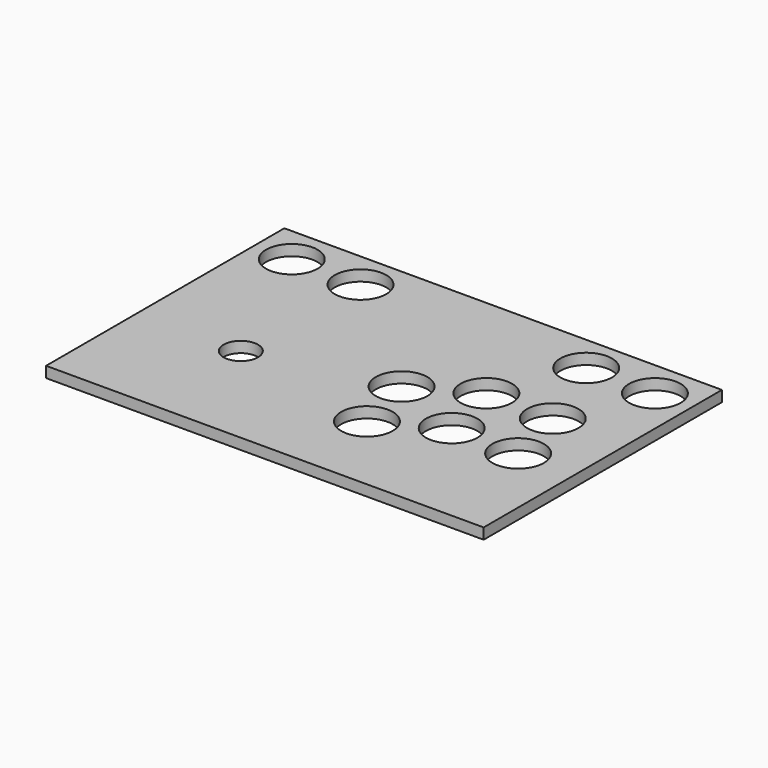
from build123d import *

# Parameters (mm, degrees)
F0_W     = 242.57
F0_H     = 165.1
F0_R     = 9.525
F0_R_2   = 14.2875
F1_DEPTH = 6.0198


with BuildPart() as f1:
    # F0 (on Top) → F1 (new body)
    with BuildSketch(Plane.XY):
        with Locations((121.285, 82.55)):
            Rectangle(F0_W, F0_H)
        with Locations((57.15, 63.5)):
            Circle(F0_R, mode=Mode.SUBTRACT)
        with Locations((141.035022, 46.037435)):
            Circle(F0_R_2, mode=Mode.SUBTRACT)
        with Locations((132.303739, 80.962565)):
            Circle(F0_R_2, mode=Mode.SUBTRACT)
        with Locations((173.65, 64.009325)):
            Circle(F0_R_2, mode=Mode.SUBTRACT)
        with Locations((210.885282, 63.5)):
            Circle(F0_R_2, mode=Mode.SUBTRACT)
        with Locations((20.6375, 144.4625)):
            Circle(F0_R_2, mode=Mode.SUBTRACT)
        with Locations((58.7375, 144.4625)):
            Circle(F0_R_2, mode=Mode.SUBTRACT)
        with Locations((164.918717, 98.934455)):
            Circle(F0_R_2, mode=Mode.SUBTRACT)
        with Locations((202.153999, 98.42513)):
            Circle(F0_R_2, mode=Mode.SUBTRACT)
        with Locations((183.8325, 144.4625)):
            Circle(F0_R_2, mode=Mode.SUBTRACT)
        with Locations((221.9325, 144.4625)):
            Circle(F0_R_2, mode=Mode.SUBTRACT)
    extrude(amount=F1_DEPTH)


solid = f1.part
